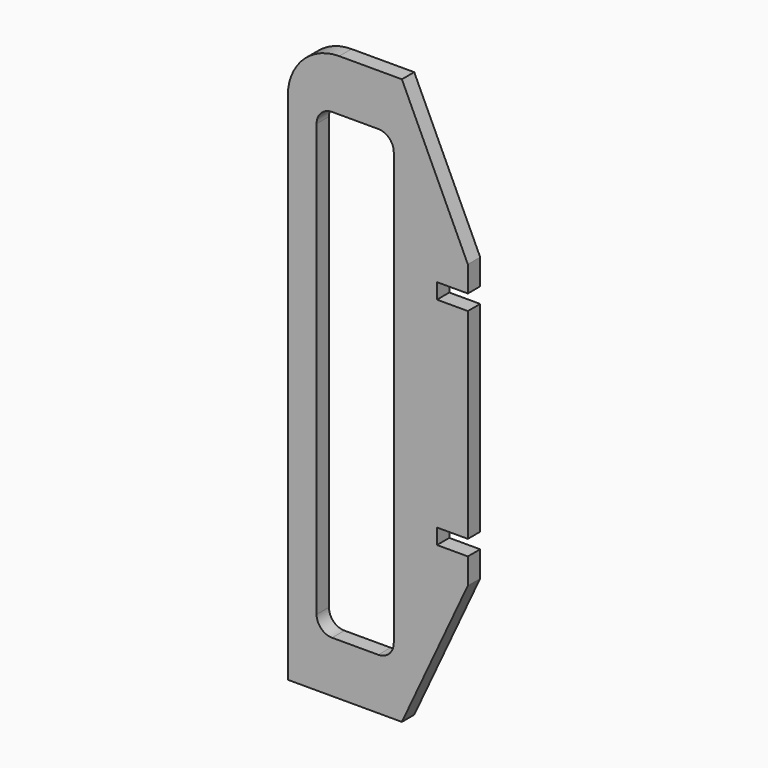
from build123d import *

# Parameters (mm, degrees)
F1_DEPTH = 3


with BuildPart() as f1:
    # F0 (on Front) → F1 (new body)
    with BuildSketch(Plane.XZ):
        with BuildLine():
            Line((17.5, 27.5), (4.676539, 55))
            Line((4.676539, 55), (-7.5, 55))
            ThreePointArc((-7.5, 55), (-14.571068, 52.071068), (-17.5, 45))
            Line((-17.5, 45), (-17.5, -55))
            Line((-17.5, -55), (4.676539, -55))
            Line((4.676539, -55), (17.5, -27.5))
            Line((17.5, -27.5), (17.5, -22.5))
            Line((17.5, -22.5), (11.5, -22.5))
            Line((11.5, -22.5), (11.5, -19.5))
            Line((11.5, -19.5), (17.5, -19.5))
            Line((17.5, -19.5), (17.5, 19.5))
            Line((17.5, 19.5), (11.5, 19.5))
            Line((11.5, 19.5), (11.5, 22.5))
            Line((11.5, 22.5), (17.5, 22.5))
            Line((17.5, 22.5), (17.5, 27.5))
        make_face()
        with BuildLine():
            ThreePointArc((-11.901447, 42), (-11.022768, 44.12132), (-8.901447, 45))
            Line((-8.901447, 45), (0.098553, 45))
            ThreePointArc((0.098553, 45), (2.219873, 44.12132), (3.098553, 42))
            Line((3.098553, 42), (3.098553, -42))
            ThreePointArc((3.098553, -42), (2.219873, -44.12132), (0.098553, -45))
            Line((0.098553, -45), (-8.901447, -45))
            ThreePointArc((-8.901447, -45), (-11.022768, -44.12132), (-11.901447, -42))
            Line((-11.901447, -42), (-11.901447, 42))
        make_face(mode=Mode.SUBTRACT)
    extrude(amount=F1_DEPTH)


solid = f1.part
